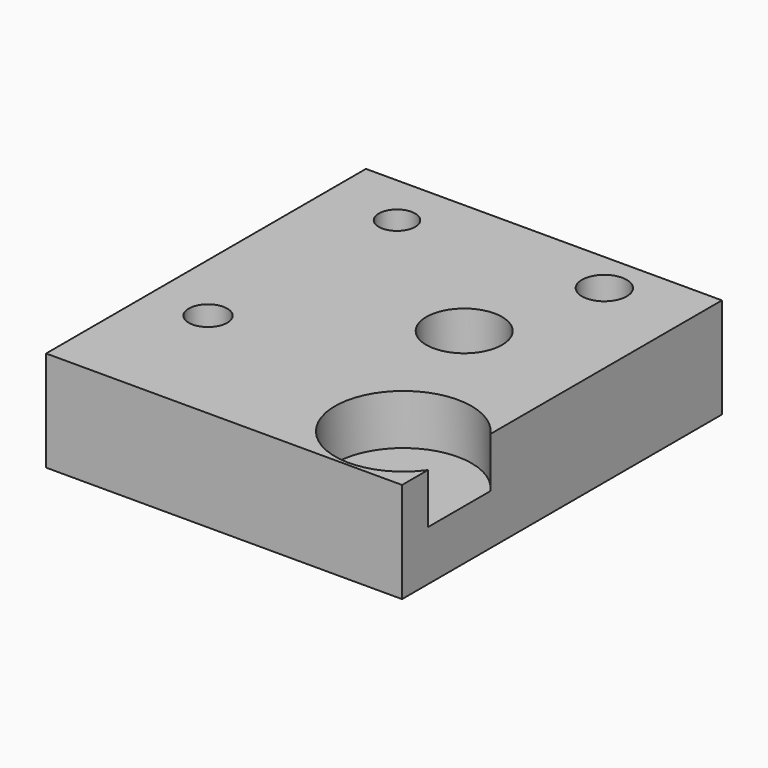
from build123d import *

# Parameters (mm, degrees)
F0_R     = 5.255079
F0_R_2   = 5.866313
F0_R_3   = 5.530812
F0_R_4   = 4.745267
F0_R_5   = 11.402065
F0_R_6   = 4.963947
F1_DEPTH = 25.4
F2_R     = 4.58982
F2_R_2   = 5.66801
F2_R_3   = 4.868237
F2_R_4   = 9.579707
F3_DEPTH = 12.7


with BuildPart() as f1:
    # F0 (on Top) → F1 (new body)
    with BuildSketch(Plane.XY):
        with BuildLine():
            ThreePointArc((-14.620975, 41.966561), (-18.531855, 25.399827), (-22.442736, 41.966561))
            Line((-22.442736, 41.966561), (-41.345298, 41.966561))
            Line((-41.345298, 41.966561), (-41.345298, 27.419109))
            ThreePointArc((-41.345298, 27.419109), (-21.015512, 15.242245), (-41.345298, 3.065382))
            Line((-41.345298, 3.065382), (-41.345298, -59.064396))
            Line((-41.345298, -59.064396), (-23.626849, -59.064396))
            ThreePointArc((-23.626849, -59.064396), (-16.576417, -52.013963), (-9.525984, -59.064396))
            Line((-9.525984, -59.064396), (5.777693, -59.064396))
            ThreePointArc((5.777693, -59.064396), (13.406963, -51.435125), (21.036233, -59.064396))
            Line((21.036233, -59.064396), (48.604846, -59.064396))
            Line((48.604846, -59.064396), (48.604846, -34.771941))
            ThreePointArc((48.604846, -34.771941), (31.486498, -25.17014), (48.604846, -15.568339))
            Line((48.604846, -15.568339), (48.604846, 41.966561))
            Line((48.604846, 41.966561), (-14.620975, 41.966561))
        make_face()
        with Locations((-29.61267, -41.465458)):
            Circle(F0_R, mode=Mode.SUBTRACT)
        with Locations((-21.139106, -21.259261)):
            Circle(F0_R_2, mode=Mode.SUBTRACT)
        with Locations((26.443215, -45.376331)):
            Circle(F0_R_3, mode=Mode.SUBTRACT)
        with Locations((26.443215, -15.39295)):
            Circle(F0_R_4, mode=Mode.SUBTRACT)
        with Locations((23.835966, 15.894057)):
            Circle(F0_R_5, mode=Mode.SUBTRACT)
        with Locations((38.175844, 0)):
            Circle(F0_R_6, mode=Mode.SUBTRACT)
        with BuildLine():
            ThreePointArc((-41.345298, 3.065382), (-21.015512, 15.242245), (-41.345298, 27.419109))
            Line((-41.345298, 27.419109), (-41.345298, 3.065382))
        make_face()
        with BuildLine():
            Line((-14.620975, 41.966561), (-22.442736, 41.966561))
            ThreePointArc((-22.442736, 41.966561), (-18.531855, 25.399827), (-14.620975, 41.966561))
        make_face()
        with Locations((23.835966, 15.894057)):
            Circle(F0_R_5)
        with Locations((38.175844, 0)):
            Circle(F0_R_6)
        with Locations((26.443215, -15.39295)):
            Circle(F0_R_4)
        with Locations((-21.139106, -21.259261)):
            Circle(F0_R_2)
        with BuildLine():
            Line((48.604846, -34.771941), (48.604846, -15.568339))
            ThreePointArc((48.604846, -15.568339), (31.486498, -25.17014), (48.604846, -34.771941))
        make_face()
        with Locations((26.443215, -45.376331)):
            Circle(F0_R_3)
        with BuildLine():
            Line((5.777693, -59.064396), (21.036233, -59.064396))
            ThreePointArc((21.036233, -59.064396), (13.406963, -51.435125), (5.777693, -59.064396))
        make_face()
        with BuildLine():
            ThreePointArc((-9.525984, -59.064396), (-16.576417, -52.013963), (-23.626849, -59.064396))
            Line((-23.626849, -59.064396), (-9.525984, -59.064396))
        make_face()
        with Locations((-29.61267, -41.465458)):
            Circle(F0_R)
    extrude(amount=F1_DEPTH)

    # F2 (on face) → F3 (cut)
    with BuildSketch(Plane.XY.offset(25.4)):
        with Locations((-22.86, 28.665714)):
            Circle(F2_R)
        with Locations((27.214285, 31.568572)):
            Circle(F2_R_2)
        with Locations((-26.48857, -26.488572)):
            Circle(F2_R_3)
        with Locations((17.054284, 0)):
            Circle(F2_R_4)
        with BuildLine():
            Line((48.604846, -50.892751), (48.604846, -31.112965))
            ThreePointArc((48.604846, -31.112965), (17.221396, -41.002858), (48.604846, -50.892751))
        make_face()
    extrude(amount=-F3_DEPTH, mode=Mode.SUBTRACT)


solid = f1.part
